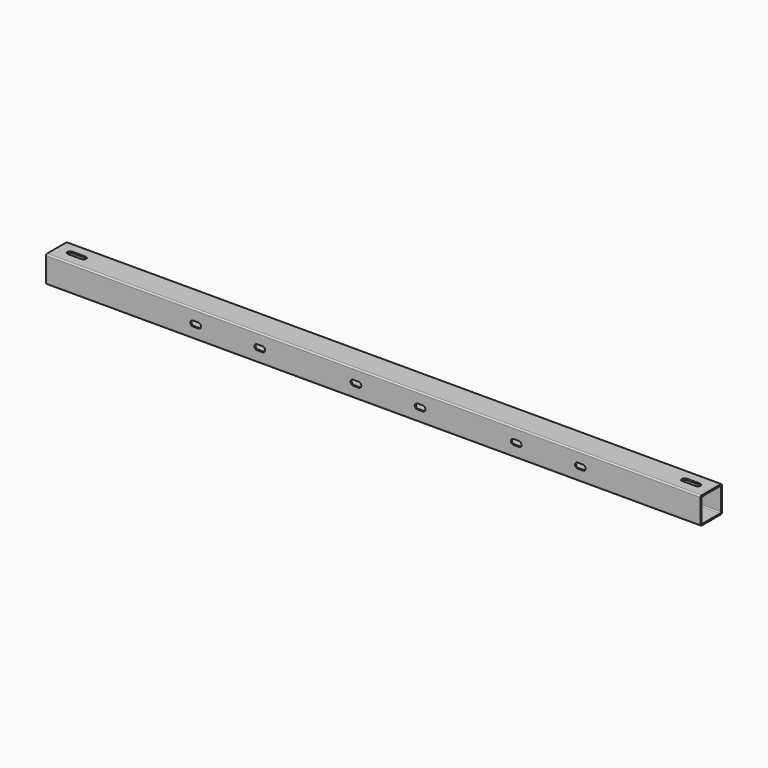
from build123d import *

# Parameters (mm, degrees)
F1_DEPTH = 1225
F3_DEPTH = 100.001
F5_DEPTH = 100.001


with BuildPart() as f1:
    # F0 (on Right) → F1 (new body, symmetric)
    with BuildSketch(Plane.YZ):
        with BuildLine():
            Line((45, 50), (-45, 50))
            ThreePointArc((-45, 50), (-48.535534, 48.535534), (-50, 45))
            Line((-50, 45), (-50, -45))
            ThreePointArc((-50, -45), (-48.535534, -48.535534), (-45, -50))
            Line((-45, -50), (45, -50))
            ThreePointArc((45, -50), (48.535534, -48.535534), (50, -45))
            Line((50, -45), (50, 45))
            ThreePointArc((50, 45), (48.535534, 48.535534), (45, 50))
        make_face()
        with BuildLine():
            ThreePointArc((-45, 41), (-43.828427, 43.828427), (-41, 45))
            Line((-41, 45), (41, 45))
            ThreePointArc((41, 45), (43.828427, 43.828427), (45, 41))
            Line((45, 41), (45, -41))
            ThreePointArc((45, -41), (43.828427, -43.828427), (41, -45))
            Line((41, -45), (-41, -45))
            ThreePointArc((-41, -45), (-43.828427, -43.828427), (-45, -41))
            Line((-45, -41), (-45, 41))
        make_face(mode=Mode.SUBTRACT)
    extrude(amount=F1_DEPTH, both=True)

    # F2 (on face) → F3 (cut, through all)
    with BuildSketch(Plane.XZ.offset(50)):
        with BuildLine():
            ThreePointArc((-675, 10), (-684.081679, 4.186061), (-682.603293, -6.495378))
            ThreePointArc((-682.603293, -6.495378), (-679.186061, -9.081679), (-675, -10))
            Line((-675, -10), (-655, -10))
            ThreePointArc((-655, -10), (-645, 0), (-655, 10))
            Line((-655, 10), (-675, 10))
        make_face()
        with BuildLine():
            Line((-415, 10), (-435, 10))
            ThreePointArc((-435, 10), (-445, 0), (-435, -10))
            Line((-435, -10), (-415, -10))
            ThreePointArc((-415, -10), (-405, 0), (-415, 10))
        make_face()
        with BuildLine():
            Line((-55, 10), (-75, 10))
            ThreePointArc((-75, 10), (-85, 0), (-75, -10))
            Line((-75, -10), (-55, -10))
            ThreePointArc((-55, -10), (-45, 0), (-55, 10))
        make_face()
        with BuildLine():
            Line((165, -10), (185, -10))
            ThreePointArc((185, -10), (195, 0), (185, 10))
            Line((185, 10), (165, 10))
            ThreePointArc((165, 10), (155, 0), (165, -10))
        make_face()
        with BuildLine():
            Line((545, 10), (525, 10))
            ThreePointArc((525, 10), (515, 0), (525, -10))
            Line((525, -10), (545, -10))
            ThreePointArc((545, -10), (555, 0), (545, 10))
        make_face()
        with BuildLine():
            Line((785, 10), (765, 10))
            ThreePointArc((765, 10), (755, 0), (765, -10))
            Line((765, -10), (785, -10))
            ThreePointArc((785, -10), (795, 0), (785, 10))
        make_face()
    extrude(amount=-F3_DEPTH, mode=Mode.SUBTRACT)

    # F4 (on face) → F5 (cut, through all)
    with BuildSketch(Plane.XY.offset(50)):
        with BuildLine():
            Line((-1125, 10), (-1175, 10))
            ThreePointArc((-1175, 10), (-1185, 0), (-1175, -10))
            Line((-1175, -10), (-1125, -10))
            ThreePointArc((-1125, -10), (-1115, 0), (-1125, 10))
        make_face()
        with BuildLine():
            ThreePointArc((1175, -10), (1185, 0), (1175, 10))
            Line((1175, 10), (1125, 10))
            ThreePointArc((1125, 10), (1115, 0), (1125, -10))
            Line((1125, -10), (1175, -10))
        make_face()
    extrude(amount=-F5_DEPTH, mode=Mode.SUBTRACT)


solid = f1.part
